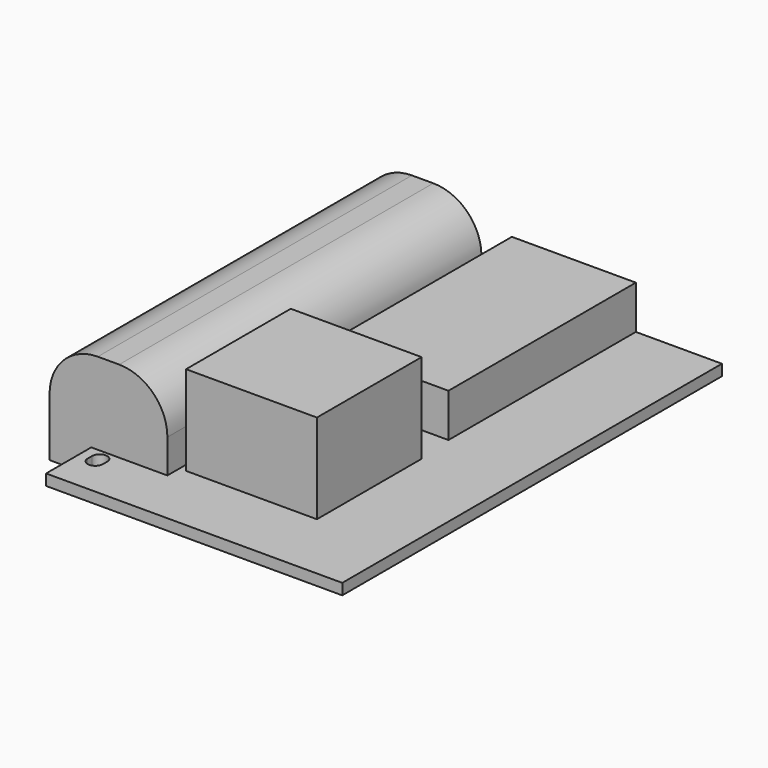
from build123d import *

# Parameters (mm, degrees)
SKETCH004_W     = 43
SKETCH004_H     = 68.9
PAD001_DEPTH    = 1.6
SKETCH005_W     = 18
SKETCH005_H     = 34
PAD002_DEPTH    = 6.3
SKETCH006_W     = 17.1
SKETCH006_H     = 57
PAD003_DEPTH    = 15.5
FILLET_R        = 7
POCKET003_DEPTH = 3.601
SKETCH010_W     = 19
SKETCH010_H     = 19
PAD004_DEPTH    = 13


with BuildPart() as part:
    # Sketch004 → Pad001 (new body)
    with BuildSketch(Plane.XY):
        with Locations((0, -34.45)):
            Rectangle(SKETCH004_W, SKETCH004_H)
    extrude(amount=-PAD001_DEPTH)

    # Sketch005 → Pad002 (join)
    with BuildSketch(Plane.XY):
        with Locations((0, -17)):
            Rectangle(SKETCH005_W, SKETCH005_H)
    extrude(amount=PAD002_DEPTH)

    # Sketch006 → Pad003 (join)
    with BuildSketch(Plane.XY.offset(-3.6)):
        with Locations((-19, -32.2)):
            Rectangle(SKETCH006_W, SKETCH006_H)
    extrude(amount=PAD003_DEPTH)

    # Fillet
    fillet_edges = [part.edges().sort_by_distance(p)[0] for p in [
        (-10.45, -32.2, 11.9),
        (-27.55, -32.2, 11.9),
    ]]
    fillet(fillet_edges, radius=FILLET_R)

    # Sketch009 → Pocket003 (cut, through all)
    with BuildSketch(Plane.XY):
        with BuildLine():
            ThreePointArc((-20.1, -63.1), (-19, -64.2), (-17.9, -63.1))
            Line((-17.9, -63.1), (-17.9, -62.3))
            ThreePointArc((-17.9, -62.3), (-19, -61.2), (-20.1, -62.3))
            Line((-20.1, -62.3), (-20.1, -63.1))
        make_face()
        with BuildLine():
            ThreePointArc((-17.9, -1.3), (-19, -0.2), (-20.1, -1.3))
            Line((-20.1, -1.3), (-20.1, -2.1))
            ThreePointArc((-20.1, -2.1), (-19, -3.2), (-17.9, -2.1))
            Line((-17.9, -2.1), (-17.9, -1.3))
        make_face()
    extrude(amount=-POCKET003_DEPTH, mode=Mode.SUBTRACT)

    # Sketch010 → Pad004 (join)
    with BuildSketch(Plane.XY):
        with Locations((0, -49)):
            Rectangle(SKETCH010_W, SKETCH010_H)
    extrude(amount=PAD004_DEPTH)


solid = part.part
